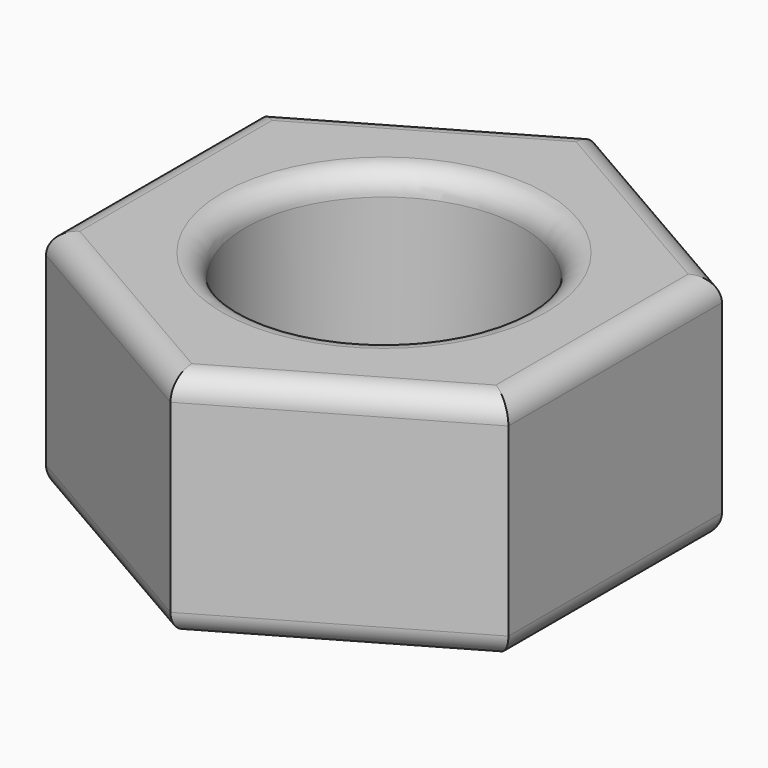
from build123d import *

# Parameters (mm, degrees)
F0_R     = 3
F1_DEPTH = 5
F2_R     = 0.5


with BuildPart() as f1:
    # F0 (on Top) → F1 (new body)
    with BuildSketch(Plane.XY):
        Polygon((5, -2.886751), (5, 2.886751), (0, 5.773503), (-5, 2.886751), (-5, -2.886751), (0, -5.773503), align=None)
        Circle(F0_R, mode=Mode.SUBTRACT)
    extrude(amount=F1_DEPTH)

    # F2
    f2_edges = [f1.edges().sort_by_distance(p)[0] for p in [
        (-3, 0, 5),
        (-3, 0, 0),
        (2.5, -4.330127, 0),
        (-2.5, -4.330127, 0),
        (-2.5, -4.330127, 5),
        (2.5, -4.330127, 5),
        (5, 0, 5),
        (2.5, 4.330127, 5),
        (-2.5, 4.330127, 5),
        (-5, 0, 5),
        (5, 0, 0),
        (2.5, 4.330127, 0),
        (-2.5, 4.330127, 0),
        (-5, 0, 0),
    ]]
    fillet(f2_edges, radius=F2_R)


solid = f1.part
